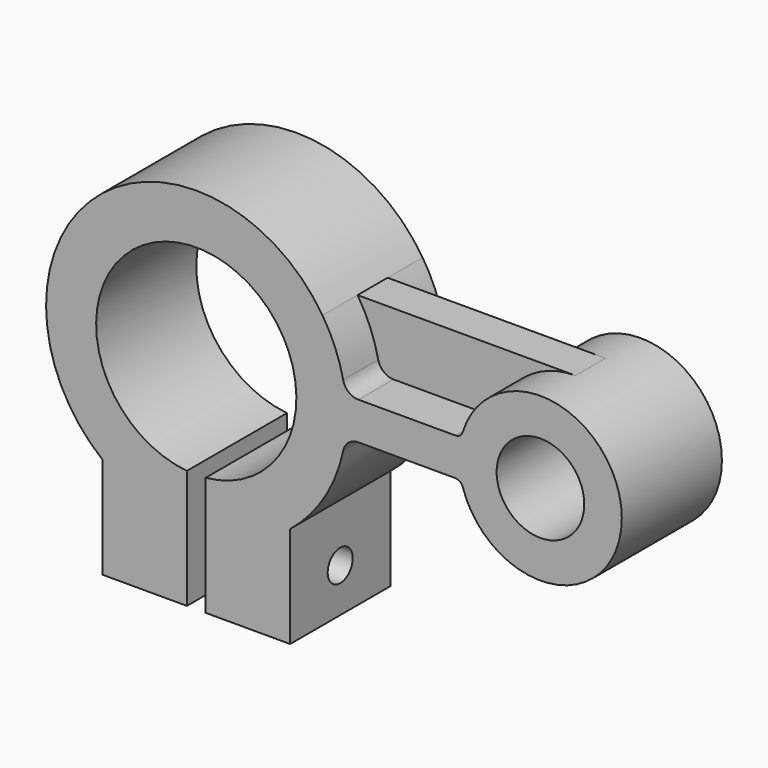
from build123d import *

# Parameters (mm, degrees)
F0_R     = 7
F1_DEPTH = 10
F2_R     = 2.5
F3_DEPTH = 39.001
F4_R     = 2.5
F5_R     = 1.25
F6_DEPTH = 3


with BuildPart() as f1:
    # F0 (on Front) → F1 (new body, symmetric)
    with BuildSketch(Plane.XZ):
        with BuildLine():
            ThreePointArc((-1.5, -15.9295323221), (0, 16), (1.5, -15.9295323221))
            Line((1.5, -15.9295323221), (1.5, -34.9295323221))
            Line((1.5, -34.9295323221), (15, -34.9295323221))
            Line((15, -34.9295323221), (15, -18.7349939952))
            ThreePointArc((15, -18.7349939952), (20.9400506806, -11.7266481782), (23.8117617996, -3))
            Line((23.8117617996, -3), (42.3508893593, -3))
            ThreePointArc((42.3508893593, -3), (65.1980390272, -8.0622577483), (55, 13))
            ThreePointArc((55, 13), (46.9377422517, 10.1980390272), (42.3508893593, 3))
            Line((42.3508893593, 3), (23.8117617996, 3))
            ThreePointArc((23.8117617996, 3), (22.5542038346, 8.2041385525), (20.1742410018, 13))
            ThreePointArc((20.1742410018, 13), (-16.0770225308, 17.8193531461), (-15, -18.7349939952))
            Line((-15, -18.7349939952), (-15, -34.9295323221))
            Line((-15, -34.9295323221), (-1.5, -34.9295323221))
            Line((-1.5, -34.9295323221), (-1.5, -15.9295323221))
        make_face()
        with Locations((55, 0)):
            Circle(F0_R, mode=Mode.SUBTRACT)
    extrude(amount=F1_DEPTH, both=True)

    # F2 (on face) → F3 (cut, through all)
    with BuildSketch(Plane.YZ.offset(15)):
        with Locations((0, -27.9295323221)):
            Circle(F2_R)
    extrude(amount=-F3_DEPTH, mode=Mode.SUBTRACT)

    # F4
    f4_edges = [f1.edges().sort_by_distance(p)[0] for p in [
        (23.811762, 5, 3),
        (23.811762, -5, 3),
        (23.811762, 5, -3),
        (23.811762, -5, -3),
    ]]
    fillet(f4_edges, radius=F4_R)

    # F5
    f5_edges = [f1.edges().sort_by_distance(p)[0] for p in [
        (42.350889, 5, -3),
        (42.350889, -5, -3),
        (42.350889, 5, 3),
        (42.350889, -5, 3),
    ]]
    fillet(f5_edges, radius=F5_R)

    # F0 (on Front) → F6 (join, symmetric)
    with BuildSketch(Plane.XZ):
        with BuildLine():
            Line((55, 13), (20.1742410018, 13))
            ThreePointArc((20.1742410018, 13), (22.5542038346, 8.2041385525), (23.8117617996, 3))
            Line((23.8117617996, 3), (42.3508893593, 3))
            ThreePointArc((42.3508893593, 3), (46.9377422517, 10.1980390272), (55, 13))
        make_face()
    extrude(amount=F6_DEPTH, both=True)


solid = f1.part
